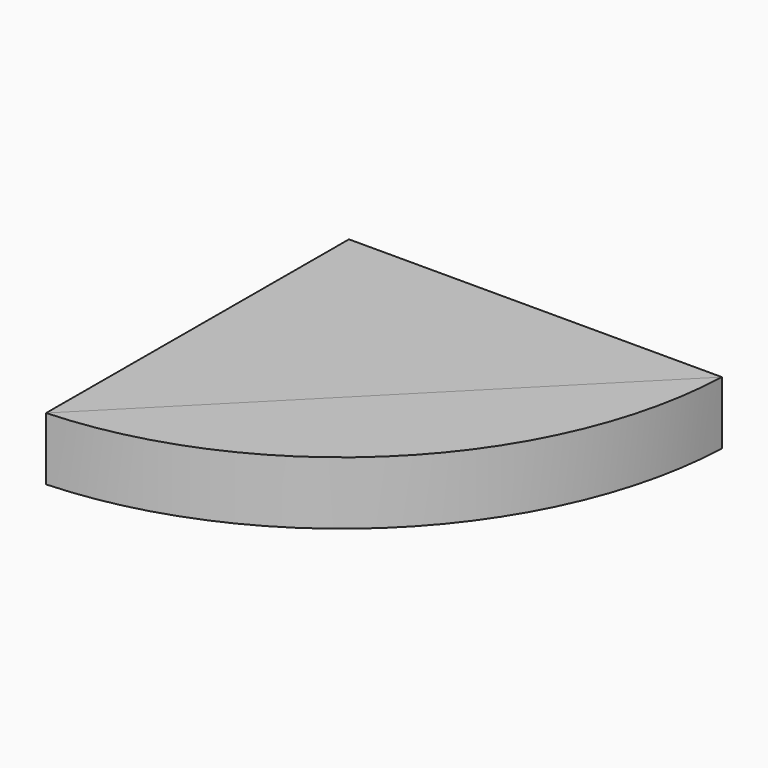
from build123d import *

# Parameters (mm, degrees)
F2_DEPTH = 25.4
F4_DEPTH = 25.4


with BuildPart() as f2:
    # F1 (on face) → F2 (new body)
    with BuildSketch(Plane.XY):
        Polygon((-76.03763, -76.641098), (75.132422, 75.726502), (-75.553134, 75.726502), align=None)
    extrude(amount=F2_DEPTH)


with BuildPart() as f4:
    # F3 (on face) → F4 (new body)
    with BuildSketch(Plane.XY.offset(25.4)):
        with BuildLine():
            Line((75.132422, 75.726502), (-76.03763, -76.641098))
            ThreePointArc((-76.03763, -76.641098), (29.224016, -29.900673), (75.132422, 75.726502))
        make_face()
    extrude(amount=-F4_DEPTH)


solid = Compound([f2.part, f4.part])
